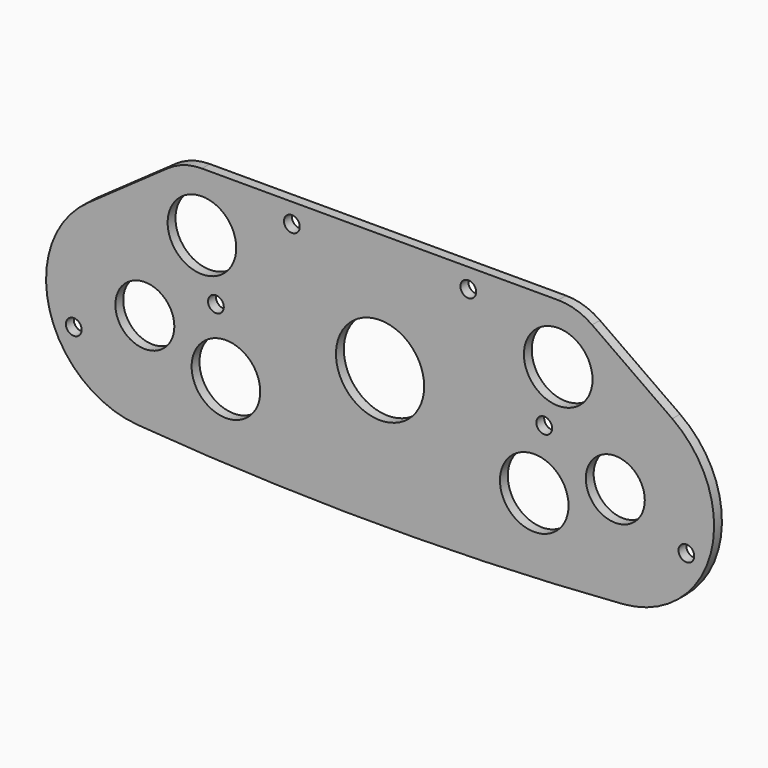
from build123d import *

# Parameters (mm, degrees)
F0_R     = 2.5527
F0_R_2   = 14.2875
F0_R_3   = 9.5504
F0_R_4   = 11.1125
F1_DEPTH = 3.175
F2_R     = 2.5527
F2_R_2   = 14.2875
F3_DEPTH = 25.4


with BuildPart() as f1:
    # F0 (on Front) → F1 (new body)
    with BuildSketch(Plane.XZ):
        with BuildLine():
            Line((-99.456923, 38.339287), (-45.021703, -19.243367))
            ThreePointArc((-45.021703, -19.243367), (-42.050874, -21.366962), (-38.499317, -22.216626))
            Line((-38.499317, -22.216626), (-0.931741, -23.792961))
            ThreePointArc((-0.931741, -23.792961), (0, -23.8125), (0.931741, -23.792961))
            Line((0.931741, -23.792961), (38.499317, -22.216626))
            ThreePointArc((38.499317, -22.216626), (42.050874, -21.366962), (45.021703, -19.243367))
            Line((45.021703, -19.243367), (99.456923, 38.339287))
            ThreePointArc((99.456923, 38.339287), (108.045638, 63.504837), (94.65047, 86.475261))
            Line((94.65047, 86.475261), (68.686167, 104.794528))
            ThreePointArc((68.686167, 104.794528), (63.4647, 107.386922), (57.703744, 108.278896))
            Line((57.703744, 108.278896), (-57.703744, 108.278896))
            ThreePointArc((-57.703744, 108.278896), (-63.4647, 107.386922), (-68.686167, 104.794528))
            Line((-68.686167, 104.794528), (-94.65047, 86.475261))
            ThreePointArc((-94.65047, 86.475261), (-108.045638, 63.504837), (-99.456923, 38.339287))
        make_face()
        with Locations((-38.1, -12.7)):
            Circle(F0_R, mode=Mode.SUBTRACT)
        with Locations((-53.975, -1.5875)):
            Circle(F0_R, mode=Mode.SUBTRACT)
        with Locations((0, -1.5875)):
            Circle(F0_R_2, mode=Mode.SUBTRACT)
        with Locations((-38.1, 12.7)):
            Circle(F0_R, mode=Mode.SUBTRACT)
        with Locations((-50.8, 21.9075)):
            Circle(F0_R, mode=Mode.SUBTRACT)
        with Locations((38.1, -12.7)):
            Circle(F0_R, mode=Mode.SUBTRACT)
        with Locations((53.975, -1.5875)):
            Circle(F0_R, mode=Mode.SUBTRACT)
        with Locations((38.1, 12.7)):
            Circle(F0_R, mode=Mode.SUBTRACT)
        with Locations((50.8, 21.9075)):
            Circle(F0_R, mode=Mode.SUBTRACT)
        with Locations((-99.220218, 49.590496)):
            Circle(F0_R, mode=Mode.SUBTRACT)
        with Locations((-76.2, 60.325)):
            Circle(F0_R_3, mode=Mode.SUBTRACT)
        with Locations((-49.937819, 50.751531)):
            Circle(F0_R_4, mode=Mode.SUBTRACT)
        with Locations((-53.179782, 71.059504)):
            Circle(F0_R, mode=Mode.SUBTRACT)
        with Locations((0, 69.5325)):
            Circle(F0_R_2, mode=Mode.SUBTRACT)
        with Locations((-57.703744, 89.228896)):
            Circle(F0_R_4, mode=Mode.SUBTRACT)
        with Locations((-28.575, 101.928896)):
            Circle(F0_R, mode=Mode.SUBTRACT)
        with Locations((49.937819, 50.751531)):
            Circle(F0_R_4, mode=Mode.SUBTRACT)
        with Locations((53.179782, 71.059504)):
            Circle(F0_R, mode=Mode.SUBTRACT)
        with Locations((99.220218, 49.590496)):
            Circle(F0_R, mode=Mode.SUBTRACT)
        with Locations((76.2, 60.325)):
            Circle(F0_R_3, mode=Mode.SUBTRACT)
        with Locations((28.575, 101.928896)):
            Circle(F0_R, mode=Mode.SUBTRACT)
        with Locations((57.703744, 89.228896)):
            Circle(F0_R_4, mode=Mode.SUBTRACT)
    extrude(amount=F1_DEPTH)

    # F2 (on face) → F3 (cut)
    with BuildSketch(Plane.XZ.offset(3.175)):
        with BuildLine():
            Line((-45.021703, -19.243367), (-99.456923, 38.339287))
            Line((-99.456923, 38.339287), (-99.456923, -25.4))
            Line((-99.456923, -25.4), (99.456923, -25.4))
            Line((99.456923, -25.4), (99.456923, 38.339287))
            Line((99.456923, 38.339287), (45.021703, -19.243367))
            ThreePointArc((45.021703, -19.243367), (42.050874, -21.366962), (38.499317, -22.216626))
            Line((38.499317, -22.216626), (0.931741, -23.792961))
            ThreePointArc((0.931741, -23.792961), (0, -23.8125), (-0.931741, -23.792961))
            Line((-0.931741, -23.792961), (-38.499317, -22.216626))
            ThreePointArc((-38.499317, -22.216626), (-42.050874, -21.366962), (-45.021703, -19.243367))
        make_face()
        with BuildLine():
            ThreePointArc((-78.65004, 28.414918), (-89.978072, 31.438658), (-99.456923, 38.339287))
            Line((-99.456923, 38.339287), (-45.021703, -19.243367))
            ThreePointArc((-45.021703, -19.243367), (-42.050874, -21.366962), (-38.499317, -22.216626))
            Line((-38.499317, -22.216626), (-0.931741, -23.792961))
            ThreePointArc((-0.931741, -23.792961), (0, -23.8125), (0.931741, -23.792961))
            Line((0.931741, -23.792961), (38.499317, -22.216626))
            ThreePointArc((38.499317, -22.216626), (42.050874, -21.366962), (45.021703, -19.243367))
            Line((45.021703, -19.243367), (99.456923, 38.339287))
            ThreePointArc((99.456923, 38.339287), (89.978072, 31.438658), (78.65004, 28.414918))
            ThreePointArc((78.65004, 28.414918), (0, 25.4), (-78.65004, 28.414918))
        make_face()
        with Locations((-38.1, -12.7)):
            Circle(F2_R, mode=Mode.SUBTRACT)
        with Locations((-53.975, -1.5875)):
            Circle(F2_R, mode=Mode.SUBTRACT)
        with Locations((0, -1.5875)):
            Circle(F2_R_2, mode=Mode.SUBTRACT)
        with Locations((-38.1, 12.7)):
            Circle(F2_R, mode=Mode.SUBTRACT)
        with Locations((-50.8, 21.9075)):
            Circle(F2_R, mode=Mode.SUBTRACT)
        with Locations((38.1, -12.7)):
            Circle(F2_R, mode=Mode.SUBTRACT)
        with Locations((53.975, -1.5875)):
            Circle(F2_R, mode=Mode.SUBTRACT)
        with Locations((38.1, 12.7)):
            Circle(F2_R, mode=Mode.SUBTRACT)
        with Locations((50.8, 21.9075)):
            Circle(F2_R, mode=Mode.SUBTRACT)
    extrude(amount=-F3_DEPTH, mode=Mode.SUBTRACT)


solid = f1.part
